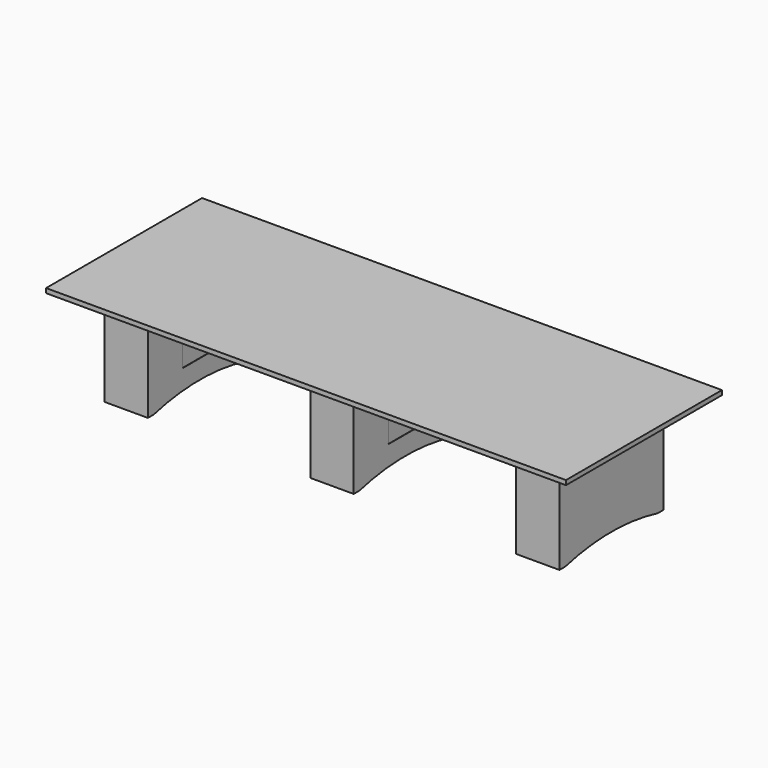
from build123d import *

# Parameters (mm, degrees)
F0_W      = 3657.6
F0_H      = 1371.6
F1_DEPTH  = 31.75
F2_W      = 406.4
F2_H      = 1016
F2_W_2    = 304.8
F2_H_2    = 914.4
F3_DEPTH  = 19.05
F4_W      = 304.8
F4_H      = 914.4
F4_W_2    = 266.7
F4_H_2    = 876.3
F5_DEPTH  = 673.1
F7_DEPTH  = 3657.6
F9_DEPTH  = 1981.201
F10_W     = 304.8
F10_H     = 304.8
F11_DEPTH = 25.4
F12_W     = 304.8
F12_H     = 304.8
F13_DEPTH = 25.4
F14_W     = 304.8
F14_H     = 304.8
F15_DEPTH = 25.4
F16_W     = 301.625
F16_H     = 301.625
F17_DEPTH = 19.05
F18_W     = 301.625
F18_H     = 301.625
F19_DEPTH = 19.05
F20_W     = 301.625
F20_H     = 301.625
F21_DEPTH = 19.05


with BuildPart() as f1:
    # F0 (on Top) → F1 (new body)
    with BuildSketch(Plane.XY):
        Rectangle(F0_W, F0_H)
    extrude(amount=-F1_DEPTH)

    # F8 (on face) → F9 (cut, through all)
    with BuildSketch(Plane.YZ.offset(152.4)):
        with BuildLine():
            Line((-406.4, -723.9), (406.4, -723.9))
            ThreePointArc((406.4, -723.9), (0, -673.1), (-406.4, -723.9))
        make_face()
    extrude(amount=-F9_DEPTH, mode=Mode.SUBTRACT)


with BuildPart() as f3:
    # F2 (on face) → F3 (new body)
    with BuildSketch(Plane(origin=(0, 0, -31.75), x_dir=(1, 0, 0), z_dir=(0, 0, -1))):
        with Locations((-1447.8, 0)):
            Rectangle(F2_W, F2_H)
        with Locations((-1447.8, 0)):
            Rectangle(F2_W_2, F2_H_2, mode=Mode.SUBTRACT)
    extrude(amount=F3_DEPTH)


with BuildPart() as f3b:
    # F2 (on face) → F3, piece 2 (new body)
    with BuildSketch(Plane(origin=(0, 0, -31.75), x_dir=(1, 0, 0), z_dir=(0, 0, -1))):
        Rectangle(F2_W, F2_H)
        Rectangle(F2_W_2, F2_H_2, mode=Mode.SUBTRACT)
    extrude(amount=F3_DEPTH)


with BuildPart() as f3c:
    # F2 (on face) → F3, piece 3 (new body)
    with BuildSketch(Plane(origin=(0, 0, -31.75), x_dir=(1, 0, 0), z_dir=(0, 0, -1))):
        with Locations((1447.8, 0)):
            Rectangle(F2_W, F2_H)
        with Locations((1447.8, 0)):
            Rectangle(F2_W_2, F2_H_2, mode=Mode.SUBTRACT)
    extrude(amount=F3_DEPTH)


with BuildPart() as f5:
    # F4 (on face) → F5 (new body)
    with BuildSketch(Plane(origin=(0, 0, -50.8), x_dir=(1, 0, 0), z_dir=(0, 0, -1))):
        with Locations((-1447.8, 0)):
            Rectangle(F4_W, F4_H)
        with Locations((-1447.8, 0)):
            Rectangle(F4_W_2, F4_H_2, mode=Mode.SUBTRACT)
    extrude(amount=F5_DEPTH)


with BuildPart() as f5b:
    # F4 (on face) → F5, piece 2 (new body)
    with BuildSketch(Plane(origin=(0, 0, -50.8), x_dir=(1, 0, 0), z_dir=(0, 0, -1))):
        Rectangle(F4_W, F4_H)
        Rectangle(F4_W_2, F4_H_2, mode=Mode.SUBTRACT)
    extrude(amount=F5_DEPTH)


with BuildPart() as f5c:
    # F4 (on face) → F5, piece 3 (new body)
    with BuildSketch(Plane(origin=(0, 0, -50.8), x_dir=(1, 0, 0), z_dir=(0, 0, -1))):
        with Locations((1447.8, 0)):
            Rectangle(F4_W, F4_H)
        with Locations((1447.8, 0)):
            Rectangle(F4_W_2, F4_H_2, mode=Mode.SUBTRACT)
    extrude(amount=F5_DEPTH)


with BuildPart() as f7_tool:
    # F6 (on face) → F7 (new body)
    with BuildSketch(Plane.YZ.offset(1600.2)):
        with BuildLine():
            Line((-406.4, -723.9), (406.4, -723.9))
            ThreePointArc((406.4, -723.9), (0, -673.1), (-406.4, -723.9))
        make_face()
    extrude(amount=-F7_DEPTH)


with BuildPart() as f5_1:
    add(f5.part)

    # F7: cut by f7_tool
    add(f7_tool.part, mode=Mode.SUBTRACT)

    # F10 (on face) → F11 (cut)
    with BuildSketch(Plane.YZ.offset(-1295.4)):
        with Locations((0, -387.35)):
            Rectangle(F10_W, F10_H)
    extrude(amount=-F11_DEPTH, mode=Mode.SUBTRACT)


with BuildPart() as f5b_1:
    add(f5b.part)

    # F7: cut by f7_tool
    add(f7_tool.part, mode=Mode.SUBTRACT)

    # F12 (on face) → F13 (cut)
    with BuildSketch(Plane.YZ.offset(152.4)):
        with Locations((0, -387.35)):
            Rectangle(F12_W, F12_H)
    extrude(amount=-F13_DEPTH, mode=Mode.SUBTRACT)


with BuildPart() as f5c_1:
    add(f5c.part)

    # F7: cut by f7_tool
    add(f7_tool.part, mode=Mode.SUBTRACT)

    # F14 (on face) → F15 (cut)
    with BuildSketch(Plane(origin=(1295.4, 0, 0), x_dir=(0, -1, 0), z_dir=(-1, 0, 0))):
        with Locations((0, -387.35)):
            Rectangle(F14_W, F14_H)
    extrude(amount=-F15_DEPTH, mode=Mode.SUBTRACT)


with BuildPart() as f17:
    # F16 (on face) → F17 (new body)
    with BuildSketch(Plane.YZ.offset(-1295.4)):
        with Locations((0, -387.35)):
            Rectangle(F16_W, F16_H)
    extrude(amount=-F17_DEPTH)


with BuildPart() as f19:
    # F18 (on face) → F19 (new body)
    with BuildSketch(Plane.YZ.offset(152.4)):
        with Locations((0, -387.35)):
            Rectangle(F18_W, F18_H)
    extrude(amount=-F19_DEPTH)


with BuildPart() as f21:
    # F20 (on face) → F21 (new body)
    with BuildSketch(Plane(origin=(1295.4, 0, 0), x_dir=(0, -1, 0), z_dir=(-1, 0, 0))):
        with Locations((0, -387.35)):
            Rectangle(F20_W, F20_H)
    extrude(amount=-F21_DEPTH)


solid = Compound([f1.part, f3.part, f3b.part, f3c.part, f5_1.part, f5b_1.part, f5c_1.part, f17.part, f19.part, f21.part])
